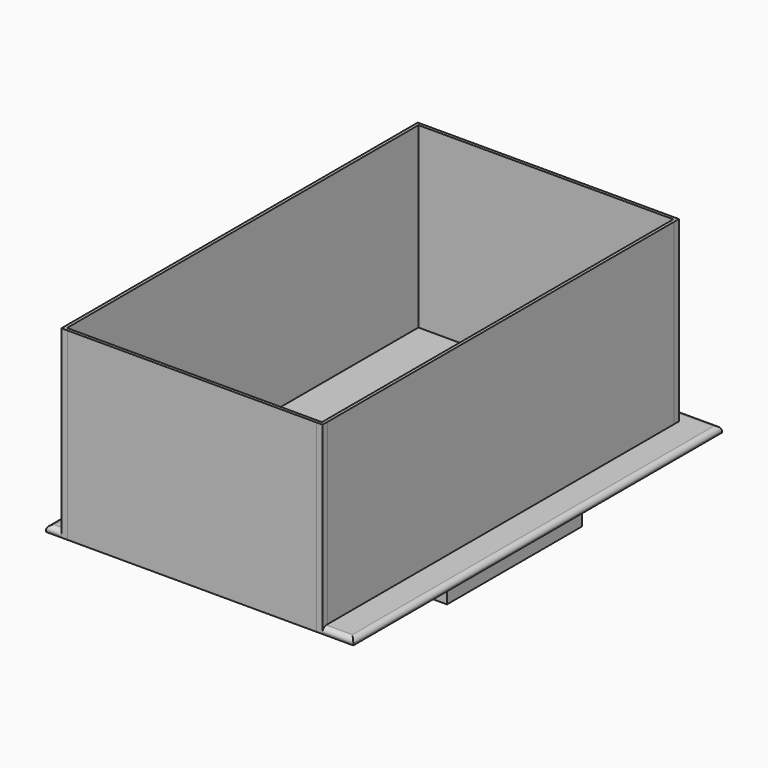
from build123d import *

# Parameters (mm, degrees)
BOX003_W          = 85
BOX003_H          = 55
BOX003_DEPTH      = 12
CYLINDER001_R     = 8.5
CYLINDER001_DEPTH = 10
CYLINDER002_R     = 8.5
CYLINDER002_DEPTH = 10
BOX001_W          = 12
BOX001_H          = 3.5
BOX001_DEPTH      = 10
BOX002_W          = 12
BOX002_H          = 3.5
BOX002_DEPTH      = 10
CYLINDER_R        = 8.5
CYLINDER_DEPTH    = 10
BOX_W             = 100
BOX_H             = 150
BOX_DEPTH         = 2
FILLET_R          = 1.5
FILLET001_R       = 0.5
BOX005_W          = 83
BOX005_H          = 143
BOX005_DEPTH      = 65
BOX004_W          = 85
BOX004_H          = 145
BOX004_DEPTH      = 60
FILLET002_R       = 1
FILLET003_R       = 2


with BuildPart() as obj1:
    # Box003 → Box003 (new body)
    with BuildSketch(Plane(origin=(2.5, 47.5, -10), x_dir=(1, 0, 0), z_dir=(0, 0, 1))):
        with Locations((42.5, 27.5)):
            Rectangle(BOX003_W, BOX003_H)
    extrude(amount=BOX003_DEPTH)


with BuildPart() as obj2:
    # Cylinder001 → Cylinder001 (new body)
    with BuildSketch(Plane(origin=(45, 117.75, -4), x_dir=(1, 0, 0), z_dir=(0, 0, 1))):
        Circle(CYLINDER001_R)
    extrude(amount=CYLINDER001_DEPTH)


with BuildPart() as obj3:
    # Cylinder002 → Cylinder002 (new body)
    with BuildSketch(Plane(origin=(55.5, 32.25, -4), x_dir=(1, 0, 0), z_dir=(0, 0, 1))):
        Circle(CYLINDER002_R)
    extrude(amount=CYLINDER002_DEPTH)


with BuildPart() as cube001:
    # Box001 → Box001 (new body)
    with BuildSketch(Plane(origin=(39, 82.5, 0), x_dir=(1, 0, 0), z_dir=(0, 0, 1))):
        with Locations((6, 1.75)):
            Rectangle(BOX001_W, BOX001_H)
    extrude(amount=BOX001_DEPTH)


with BuildPart() as cube002:
    # Box002 → Box002 (new body)
    with BuildSketch(Plane(origin=(39, 70, 0), x_dir=(1, 0, 0), z_dir=(0, 0, 1))):
        with Locations((6, 1.75)):
            Rectangle(BOX002_W, BOX002_H)
    extrude(amount=BOX002_DEPTH)


with BuildPart() as obj4:
    # Cylinder → Cylinder (new body)
    with BuildSketch(Plane(origin=(29, 32.25, -4), x_dir=(1, 0, 0), z_dir=(0, 0, 1))):
        Circle(CYLINDER_R)
    extrude(amount=CYLINDER_DEPTH)


with BuildPart() as fillet001:
    # Box → Box (new body)
    with BuildSketch(Plane(origin=(-5, 0, 0), x_dir=(1, 0, 0), z_dir=(0, 0, 1))):
        with Locations((50, 75)):
            Rectangle(BOX_W, BOX_H)
    extrude(amount=BOX_DEPTH)

    # Cut: cut obj4
    add(obj4.part, mode=Mode.SUBTRACT)

    # Cut001: cut Cube002
    add(cube002.part, mode=Mode.SUBTRACT)

    # Cut002: cut Cube001
    add(cube001.part, mode=Mode.SUBTRACT)

    # Cut003: cut obj3
    add(obj3.part, mode=Mode.SUBTRACT)

    # Cut004: cut obj2
    add(obj2.part, mode=Mode.SUBTRACT)

    # Fillet
    fillet_edges = [fillet001.edges().sort_by_distance(p)[0] for p in [
        (-5, 75, 2),
        (45, 0, 2),
        (45, 150, 2),
        (95, 75, 2),
    ]]
    fillet(fillet_edges, radius=FILLET_R)

    # Fillet001
    fillet001_edges = [fillet001.edges().sort_by_distance(p)[0] for p in [
        (45, 86, 2),
        (51, 84.25, 2),
        (39, 84.25, 2),
        (45, 82.5, 2),
        (51, 71.75, 2),
        (45, 70, 2),
        (45, 73.5, 2),
        (39, 71.75, 2),
    ]]
    fillet(fillet001_edges, radius=FILLET001_R)


with BuildPart() as cube004:
    # Box005 → Box005 (new body)
    with BuildSketch(Plane(origin=(1, 1, 1), x_dir=(1, 0, 0), z_dir=(0, 0, 1))):
        with Locations((41.5, 71.5)):
            Rectangle(BOX005_W, BOX005_H)
    extrude(amount=BOX005_DEPTH)


with BuildPart() as cut005:
    # Box004 → Box004 (new body)
    with BuildSketch(Plane.XY):
        with Locations((42.5, 72.5)):
            Rectangle(BOX004_W, BOX004_H)
    extrude(amount=BOX004_DEPTH)

    # Cut005: cut Cube004
    add(cube004.part, mode=Mode.SUBTRACT)


with BuildPart() as fillet002:
    # Fillet002 base: copy of Cut005
    add(cut005.part)

    # Fillet002
    fillet002_edges = [fillet002.edges().sort_by_distance(p)[0] for p in [
        (84, 72.5, 1),
        (42.5, 144, 1),
        (1, 72.5, 1),
        (42.5, 1, 1),
    ]]
    fillet(fillet002_edges, radius=FILLET002_R)


with BuildPart() as fillet003:
    # Fillet003 base: copy of Cut005
    add(cut005.part)

    # Fillet003
    fillet003_edges = [fillet003.edges().sort_by_distance(p)[0] for p in [
        (0, 0, 30),
        (0, 145, 30),
        (85, 0, 30),
        (85, 145, 30),
    ]]
    fillet(fillet003_edges, radius=FILLET003_R)


solid = Compound([obj1.part, fillet001.part, fillet002.part, fillet003.part])
